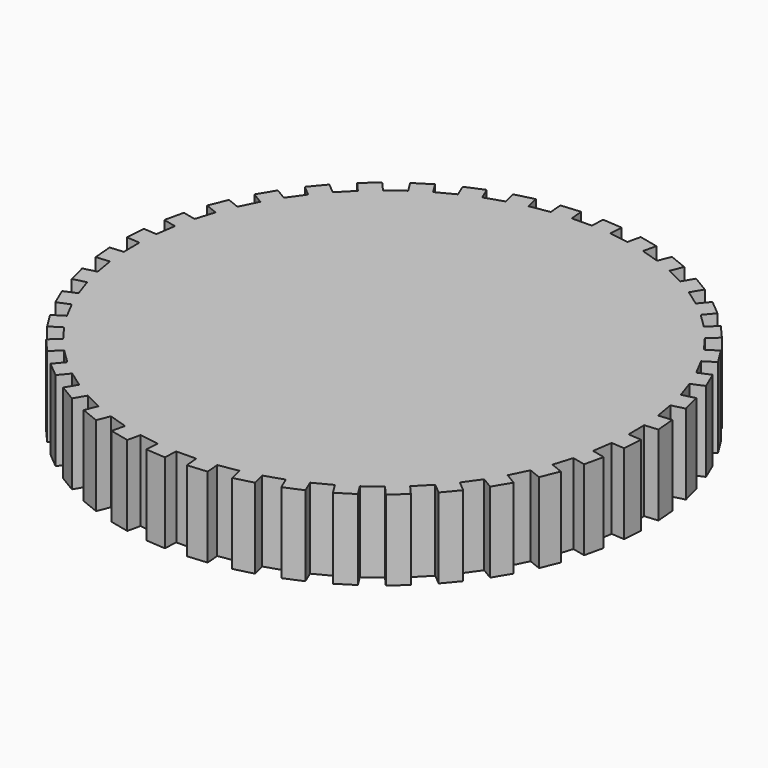
from build123d import *

# Parameters (mm, degrees)
PAD_DEPTH = 9


with BuildPart() as part:
    # Sketch → Pad (new body)
    with BuildSketch(Plane.XY):
        Polygon((-26.503024, 9.47509), (-27.894659, 10.03487), (-27.073648, 12.075934), (-25.682014, 11.516154), (-24.694497, 13.504422), (-25.98143, 14.27501), (-24.851234, 16.162511), (-23.564302, 15.391923), (-22.27791, 17.201231), (-23.428452, 18.163652), (-22.016901, 19.851113), (-20.866359, 18.888692), (-19.312767, 20.474488), (-20.298587, 21.605045), (-18.640438, 23.050915), (-17.654617, 21.920358), (-15.872079, 23.243596), (-16.668904, 24.514449), (-14.804986, 25.683127), (-14.00816, 24.412273), (-12.040568, 25.440369), (-12.628778, 26.820227), (-10.604979, 27.682919), (-10.016776, 26.303077), (-7.912578, 27.010715), (-8.277689, 28.465602), (-6.143855, 29.001097), (-5.778745, 27.546211), (-3.589754, 27.915968), (-3.722775, 29.410059), (-1.531443, 29.605156), (-1.398422, 28.111066), (0.821461, 28.133838), (0.923805, 29.630342), (3.118678, 29.480238), (3.016334, 27.983734), (5.21245, 27.658959), (5.547638, 29.121029), (7.692007, 28.629419), (7.356819, 27.167349), (9.47509, 26.503024), (10.03487, 27.894659), (12.075934, 27.073648), (11.516154, 25.682014), (13.504422, 24.694497), (14.27501, 25.98143), (16.162511, 24.851234), (15.391923, 23.564302), (17.201231, 22.27791), (18.163652, 23.428452), (19.851113, 22.016901), (18.888692, 20.866359), (20.474488, 19.312767), (21.605045, 20.298587), (23.050915, 18.640438), (21.920358, 17.654617), (23.243596, 15.872079), (24.514448, 16.668904), (25.683127, 14.804986), (24.412273, 14.00816), (25.440369, 12.040568), (26.820227, 12.628778), (27.682935, 10.604985), (26.303077, 10.016776), (27.010715, 7.912578), (28.465602, 8.277689), (29.001097, 6.143855), (27.546211, 5.778745), (27.915968, 3.589754), (29.410059, 3.722775), (29.605156, 1.531443), (28.111066, 1.398422), (28.133838, -0.821461), (29.630342, -0.923805), (29.480238, -3.118678), (27.983734, -3.016334), (27.658959, -5.21245), (29.121029, -5.547638), (28.629419, -7.692007), (27.167349, -7.356819), (26.503024, -9.47509), (27.894659, -10.03487), (27.073648, -12.075934), (25.682014, -11.516154), (24.694497, -13.504422), (25.98143, -14.27501), (24.851235, -16.162511), (23.564302, -15.391923), (22.27791, -17.201231), (23.428452, -18.163652), (22.016901, -19.851113), (20.866359, -18.888692), (19.312767, -20.474488), (20.298587, -21.605045), (18.640438, -23.050915), (17.654617, -21.920358), (15.872079, -23.243596), (16.668904, -24.514449), (14.804986, -25.683127), (14.00816, -24.412273), (12.040568, -25.440369), (12.628778, -26.820227), (10.604986, -27.682935), (10.016776, -26.303077), (7.912578, -27.010715), (8.277689, -28.465602), (6.143855, -29.001097), (5.778745, -27.546211), (3.589754, -27.915968), (3.722775, -29.410059), (1.531443, -29.605156), (1.398422, -28.111066), (-0.821461, -28.133838), (-0.923805, -29.630342), (-3.118678, -29.480238), (-3.016334, -27.983734), (-5.21245, -27.658959), (-5.547638, -29.121029), (-7.692007, -28.629419), (-7.356819, -27.167349), (-9.47509, -26.503024), (-10.03487, -27.894659), (-12.075934, -27.073648), (-11.516154, -25.682014), (-13.504422, -24.694497), (-14.27501, -25.98143), (-16.162511, -24.851234), (-15.391923, -23.564302), (-17.201231, -22.27791), (-18.163652, -23.428452), (-19.851113, -22.016901), (-18.888692, -20.866359), (-20.474488, -19.312767), (-21.605045, -20.298587), (-23.050915, -18.640438), (-21.920358, -17.654617), (-23.243596, -15.872079), (-24.514449, -16.668904), (-25.683127, -14.804986), (-24.412273, -14.00816), (-25.440369, -12.040568), (-26.820227, -12.628778), (-27.682935, -10.604985), (-26.303077, -10.016776), (-27.010715, -7.912578), (-28.465602, -8.277689), (-29.001097, -6.143855), (-27.546211, -5.778745), (-27.915968, -3.589754), (-29.410059, -3.722775), (-29.605156, -1.531443), (-28.111066, -1.398422), (-28.133838, 0.821461), (-29.630342, 0.923805), (-29.480238, 3.118678), (-27.983734, 3.016334), (-27.658959, 5.21245), (-29.121029, 5.547638), (-28.629419, 7.692007), (-27.167349, 7.356819), align=None)
    extrude(amount=PAD_DEPTH)


solid = part.part
